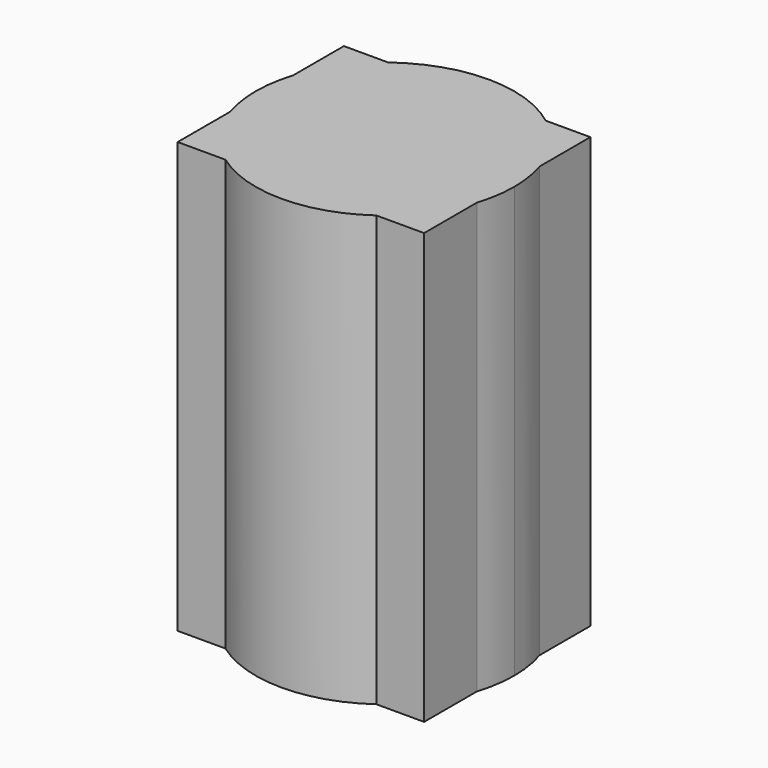
from build123d import *

# Parameters (mm, degrees)
F1_DEPTH = 50.8


with BuildPart() as f1:
    # F0 (on Top) → F1 (new body)
    with BuildSketch(Plane.XY):
        with BuildLine():
            ThreePointArc((14.5472735167, -4.6368075466), (15.087019572, -2.3462718145), (15.2683709345, 0))
            ThreePointArc((15.2683709345, 0), (15.087019572, 2.3462718145), (14.5472735167, 4.6368075466))
            Line((14.5472735167, 4.6368075466), (14.5472735167, -4.6368075466))
        make_face()
        with BuildLine():
            Line((14.5472735167, -4.6368075466), (14.5472735167, 4.6368075466))
            ThreePointArc((14.5472735167, 4.6368075466), (12.4889100158, 8.783523075), (9.2823821573, 12.1227279305))
            Line((9.2823821573, 12.1227279305), (0, 12.1227279305))
            Line((0, 12.1227279305), (-7.8358159836, 12.1227279305))
            Line((-7.8358159836, 12.1227279305), (-9.2823821573, 12.1227279305))
            ThreePointArc((-9.2823821573, 12.1227279305), (-12.4889108979, 8.7835218208), (-14.547274448, 4.6368046247))
            Line((-14.547274448, 4.6368046247), (-14.547274448, -4.6368046247))
            ThreePointArc((-14.547274448, -4.6368046247), (-12.3495786547, -8.9783661121), (-8.8974988368, -12.4079678208))
            Line((-8.8974988368, -12.4079678208), (8.8974988368, -12.4079678208))
            ThreePointArc((8.8974988368, -12.4079678208), (12.349577753, -8.9783673524), (14.5472735167, -4.6368075466))
        make_face()
        with BuildLine():
            ThreePointArc((9.2823821573, 12.1227279305), (12.4889100158, 8.783523075), (14.5472735167, 4.6368075466))
            Line((14.5472735167, 4.6368075466), (14.5472735167, 12.1227279305))
            Line((14.5472735167, 12.1227279305), (9.2823821573, 12.1227279305))
        make_face()
        with BuildLine():
            Line((14.5472735167, -12.4079678208), (14.5472735167, -4.6368075466))
            ThreePointArc((14.5472735167, -4.6368075466), (12.349577753, -8.9783673524), (8.8974988368, -12.4079678208))
            Line((8.8974988368, -12.4079678208), (14.5472735167, -12.4079678208))
        make_face()
        with BuildLine():
            Line((0, 12.1227279305), (9.2823821573, 12.1227279305))
            ThreePointArc((9.2823821573, 12.1227279305), (0.8740812186, 15.2433307717), (-7.8358159836, 13.1043175658))
            Line((-7.8358159836, 13.1043175658), (-7.8358159836, 12.1227279305))
            Line((-7.8358159836, 12.1227279305), (0, 12.1227279305))
        make_face()
        with BuildLine():
            ThreePointArc((-8.8974988368, -12.4079678208), (0, -15.2683709345), (8.8974988368, -12.4079678208))
            Line((8.8974988368, -12.4079678208), (-8.8974988368, -12.4079678208))
        make_face()
        with BuildLine():
            Line((-7.8358159836, 12.1227279305), (-7.8358159836, 13.1043175658))
            ThreePointArc((-7.8358159836, 13.1043175658), (-8.5731590707, 12.6342429351), (-9.2823821573, 12.1227279305))
            Line((-9.2823821573, 12.1227279305), (-7.8358159836, 12.1227279305))
        make_face()
        with BuildLine():
            Line((-14.547274448, -12.4079678208), (-8.8974988368, -12.4079678208))
            ThreePointArc((-8.8974988368, -12.4079678208), (-12.3495786547, -8.9783661121), (-14.547274448, -4.6368046247))
            Line((-14.547274448, -4.6368046247), (-14.547274448, -12.4079678208))
        make_face()
        with BuildLine():
            ThreePointArc((-14.547274448, 4.6368046247), (-12.4889108979, 8.7835218208), (-9.2823821573, 12.1227279305))
            Line((-9.2823821573, 12.1227279305), (-14.547274448, 12.1227279305))
            Line((-14.547274448, 12.1227279305), (-14.547274448, 4.6368046247))
        make_face()
        with BuildLine():
            ThreePointArc((-14.547274448, 4.6368046247), (-15.2683709345, 0), (-14.547274448, -4.6368046247))
            Line((-14.547274448, -4.6368046247), (-14.547274448, 4.6368046247))
        make_face()
    extrude(amount=F1_DEPTH)


solid = f1.part
